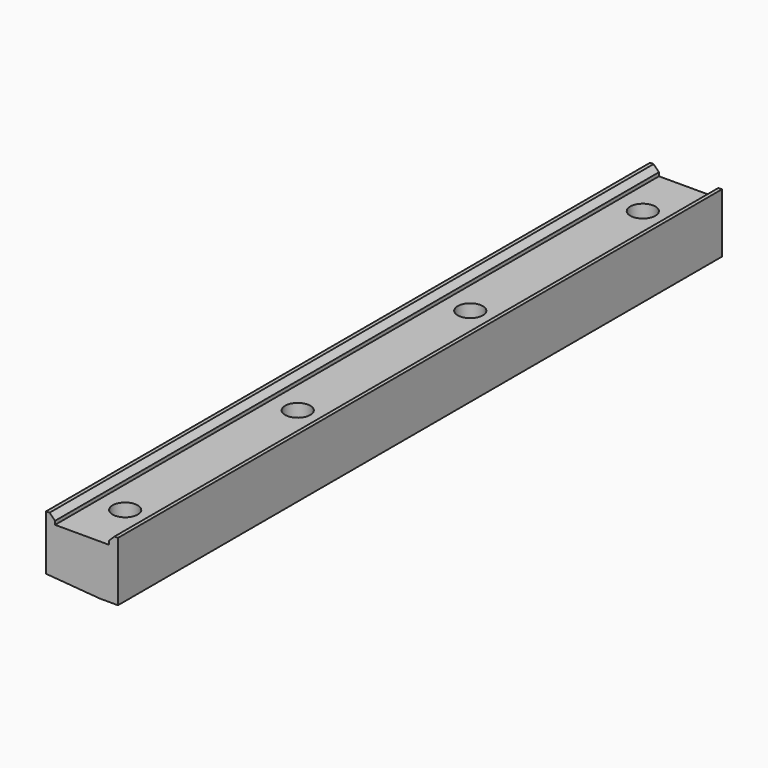
from build123d import *

# Parameters (mm, degrees)
F1_DEPTH       = 420
F2_SIZE        = 3
F4_D           = 9
F4_CBORE_D     = 14
F4_CBORE_DEPTH = 10


with BuildPart() as f1:
    # F0 (on Front) → F1 (new body)
    with BuildSketch(Plane.XZ):
        Polygon((0, 2.400041), (30, 0), (40, 0), (40, 33), (35, 33), (35, 28), (5, 28), (5, 33), (0, 33), align=None)
    extrude(amount=F1_DEPTH)

    # F2
    f2_edges = [f1.edges().sort_by_distance(p)[0] for p in [
        (5, -210, 33),
        (35, -210, 33),
    ]]
    chamfer(f2_edges, length=F2_SIZE)

    # F4 (through all)
    with Locations(Plane.XY.offset(28)):
        with Locations((20, -390), (20, -270), (20, -150), (20, -30)):
            CounterBoreHole(F4_D / 2, F4_CBORE_D / 2, F4_CBORE_DEPTH)


solid = f1.part
